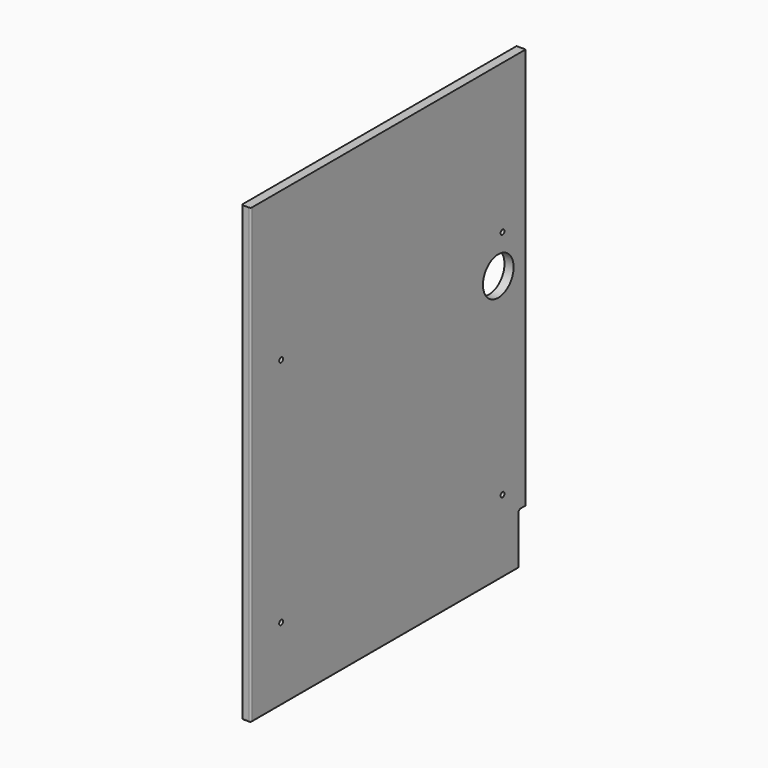
from build123d import *

# Parameters (mm, degrees)
F0_W      = 717.55
F0_H      = 946.15
F1_DEPTH  = 19.05
F3_D      = 8.001
F3_DEPTH  = 12.7
F3_TIP    = 2.4037429064
F5_DEPTH  = 19.051
F7_D      = 9.99998
F9_D      = 79.99984
F11_D     = 8.001
F11_DEPTH = 25.4
F11_TIP   = 2.4037429064
F12_R     = 3.175


with BuildPart() as f1:
    # F0 (on Right) → F1 (new body)
    with BuildSketch(Plane.YZ):
        Rectangle(F0_W, F0_H)
    extrude(amount=-F1_DEPTH)

    # F3
    with Locations(Plane(origin=(-19.05, 0, 0), x_dir=(0, -1, 0), z_dir=(-1, 0, 0))):
        with Locations((-320.675, 463.55), (-192.67424, 463.55), (-64.67348, 463.55), (63.32728, 463.55), (191.32804, 463.55), (287.32734, 463.55)):
            Hole(F3_D / 2, depth=F3_DEPTH)
            with Locations((0, 0, -(F3_DEPTH + F3_TIP / 2))):  # 118° drill point
                Cone(0, F3_D / 2, F3_TIP, mode=Mode.SUBTRACT)

    # F4 (on face) → F5 (cut, through all)
    with BuildSketch(Plane.YZ):
        with BuildLine():
            Line((339.725, -473.075), (358.775, -473.075))
            Line((358.775, -473.075), (358.775, -365.125))
            Line((358.775, -365.125), (346.075, -365.125))
            ThreePointArc((346.075, -365.125), (341.5848719395, -366.9848719395), (339.725, -371.475))
            Line((339.725, -371.475), (339.725, -473.075))
        make_face()
    extrude(amount=-F5_DEPTH, mode=Mode.SUBTRACT)

    # F7 (through all)
    with Locations(Plane.YZ):
        with Locations((-279.4, 161.925), (-279.4, -320.675), (298.45, -320.675), (298.45, 161.925)):
            Hole(F7_D / 2)

    # F9 (through all)
    with Locations(Plane.YZ):
        with Locations((287.3375, 85.725)):
            Hole(F9_D / 2)

    # F11
    with Locations(Plane(origin=(0, 358.775, 0), x_dir=(-1, 0, 0), z_dir=(0, 1, 0))):
        with Locations((9.525, 434.975), (9.525, 306.97424), (9.525, 178.97348), (9.525, 50.97272), (9.525, -77.02804), (9.525, -205.0288), (9.525, -333.02956)):
            Hole(F11_D / 2, depth=F11_DEPTH)
            with Locations((0, 0, -(F11_DEPTH + F11_TIP / 2))):  # 118° drill point
                Cone(0, F11_D / 2, F11_TIP, mode=Mode.SUBTRACT)

    # F12
    f12_edges = [f1.edges().sort_by_distance(p)[0] for p in [
        (-19.05, -358.775, 0),
        (0, -358.775, 0),
        (0, -9.525, -473.075),
        (-19.05, -9.525, -473.075),
        (-9.525, -358.775, -473.075),
    ]]
    fillet(f12_edges, radius=F12_R)


solid = f1.part
